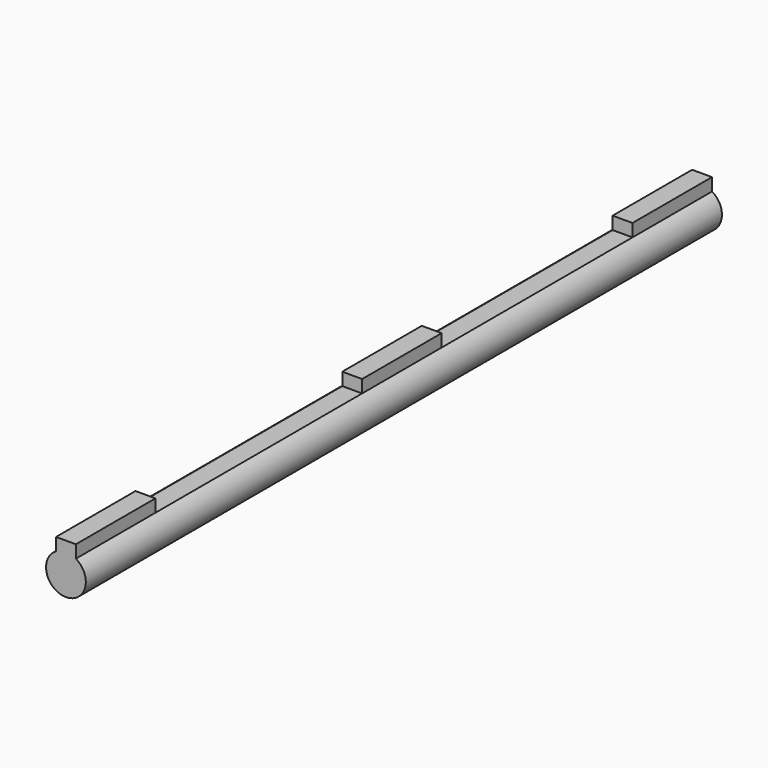
from build123d import *

# Parameters (mm, degrees)
F1_DEPTH = 127
F2_W     = 41.275
F2_H     = 2.025569343
F2_W_2   = 38.1
F3_DEPTH = 3.175


with BuildPart() as f1:
    # F0 (on Front) → F1 (new body)
    with BuildSketch(Plane.XZ):
        with BuildLine():
            Line((-1.5875, 4.7752), (-1.5875, 2.749630657))
            ThreePointArc((-1.5875, 2.749630657), (0, -3.175), (1.5875, 2.749630657))
            Line((1.5875, 2.749630657), (1.5875, 4.7752))
            Line((1.5875, 4.7752), (-1.5875, 4.7752))
        make_face()
    extrude(amount=F1_DEPTH)

    # F2 (on face) → F3 (cut)
    with BuildSketch(Plane.YZ.offset(1.5875)):
        with Locations((-90.4875, 3.7624153285)):
            Rectangle(F2_W, F2_H)
        with Locations((-34.925, 3.7624153285)):
            Rectangle(F2_W_2, F2_H)
    extrude(amount=-F3_DEPTH, mode=Mode.SUBTRACT)


solid = f1.part
